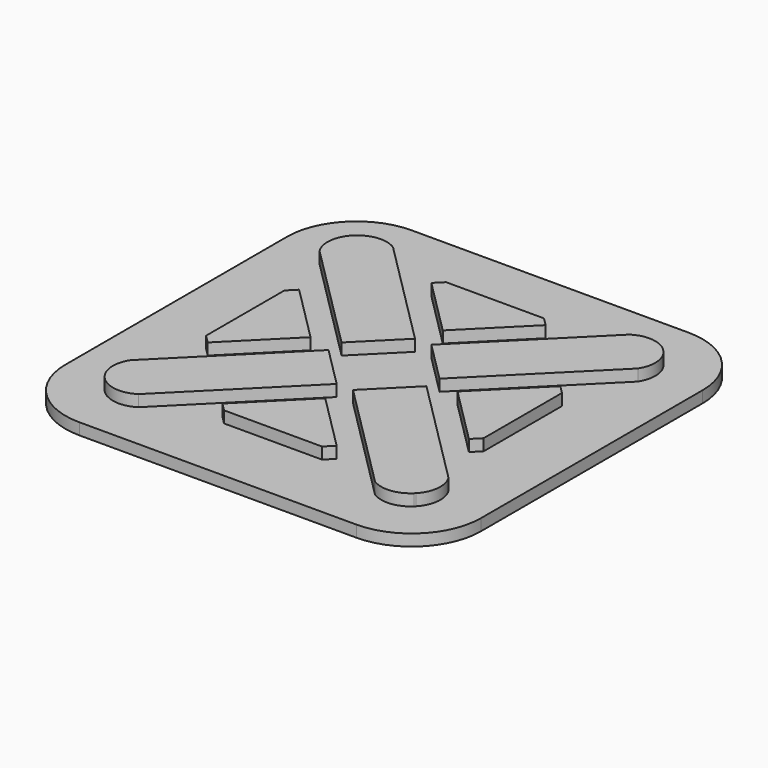
from build123d import *

# Parameters (mm, degrees)
F1_DEPTH = 1
F2_DEPTH = 0.5


with BuildPart() as f1:
    # F0 (on Top) → F1 (new body)
    with BuildSketch(Plane.XY):
        with BuildLine():
            ThreePointArc((-5.1259953704, 6.8937408063), (-6.7168839424, 6.7168624253), (-6.8937623233, 5.1259738533))
            Line((-6.8937623233, 5.1259738533), (-2.1207915503, 0.3530030803))
            Line((-2.1207915503, 0.3530030803), (-0.3530245974, 2.1207700332))
            Line((-0.3530245974, 2.1207700332), (-5.1259953704, 6.8937408063))
        make_face()
    extrude(amount=F1_DEPTH)


with BuildPart() as f1b:
    # F0 (on Top) → F1, piece 2 (new body)
    with BuildSketch(Plane.XY):
        Polygon((-5.6563254563, -2.4754240445), (-3.1814517221, -0.0005503103), (-5.6563254563, 2.4743234238), (-6.0098788468, 2.1207700332), (-6.0098788468, -2.1218706539), align=None)
    extrude(amount=F1_DEPTH)


with BuildPart() as f1c:
    # F0 (on Top) → F1, piece 3 (new body)
    with BuildSketch(Plane.XY):
        Polygon((-2.4743449409, 5.6563039392), (0.0005287932, 3.181430205), (2.4754025274, 5.6563039392), (2.1218491368, 6.0098573298), (-2.1207915503, 6.0098573298), align=None)
    extrude(amount=F1_DEPTH)


with BuildPart() as f1d:
    # F0 (on Top) → F1, piece 4 (new body)
    with BuildSketch(Plane.XY):
        with BuildLine():
            ThreePointArc((6.6447103956, 6.7902969298), (5.9029138526, 7.0919032496), (5.1270529568, 6.8937408063))
            Line((5.1270529568, 6.8937408063), (0.3540821838, 2.1207700332))
            Line((0.3540821838, 2.1207700332), (2.1218491368, 0.3530030803))
            Line((2.1218491368, 0.3530030803), (6.8948199098, 5.1259738533))
            ThreePointArc((6.8948199098, 5.1259738533), (7.0929823531, 5.901834749), (6.7913760334, 6.6436312921))
            Line((6.7913760334, 6.6436312921), (6.6447103956, 6.7902969298))
        make_face()
    extrude(amount=F1_DEPTH)


with BuildPart() as f1e:
    # F0 (on Top) → F1, piece 5 (new body)
    with BuildSketch(Plane.XY):
        Polygon((5.6573830427, 2.4743234238), (3.1825093086, -0.0005503103), (5.6573830427, -2.4754240445), (6.0109364333, -2.1218706539), (6.0109364333, 2.1207700332), align=None)
    extrude(amount=F1_DEPTH)


with BuildPart() as f1f:
    # F0 (on Top) → F1, piece 6 (new body)
    with BuildSketch(Plane.XY):
        with BuildLine():
            ThreePointArc((5.1270529568, -6.8948414269), (5.9396456258, -7.0871866013), (6.6981563067, -6.7379516394))
            Line((6.6981563067, -6.7379516394), (6.7379301223, -6.6981778238))
            ThreePointArc((6.7379301223, -6.6981778238), (7.0871650842, -5.9396671428), (6.8948199098, -5.1270744739))
            Line((6.8948199098, -5.1270744739), (2.1218491368, -0.3541037009))
            Line((2.1218491368, -0.3541037009), (0.3540821838, -2.1218706539))
            Line((0.3540821838, -2.1218706539), (5.1270529568, -6.8948414269))
        make_face()
    extrude(amount=F1_DEPTH)


with BuildPart() as f1g:
    # F0 (on Top) → F1, piece 7 (new body)
    with BuildSketch(Plane.XY):
        Polygon((2.4754025274, -5.6574045598), (0.0005287932, -3.1825308257), (-2.4743449409, -5.6574045598), (-2.1207915503, -6.0109579504), (2.1218491368, -6.0109579504), align=None)
    extrude(amount=F1_DEPTH)


with BuildPart() as f1h:
    # F0 (on Top) → F1, piece 8 (new body)
    with BuildSketch(Plane.XY):
        with BuildLine():
            ThreePointArc((-6.8937623233, -5.1270744739), (-7.0861074977, -5.9396671428), (-6.7368725359, -6.6981778238))
            Line((-6.7368725359, -6.6981778238), (-6.6970987202, -6.7379516394))
            ThreePointArc((-6.6970987202, -6.7379516394), (-5.9385880393, -7.0871866013), (-5.1259953704, -6.8948414269))
            Line((-5.1259953704, -6.8948414269), (-0.3530245974, -2.1218706539))
            Line((-0.3530245974, -2.1218706539), (-2.1207915503, -0.3541037009))
            Line((-2.1207915503, -0.3541037009), (-6.8937623233, -5.1270744739))
        make_face()
    extrude(amount=F1_DEPTH)


with BuildPart() as f2:
    # F0 (on Top) → F2 (new body)
    with BuildSketch(Plane.XY):
        with BuildLine():
            Line((-5.9994712068, -9.0005503103), (6.0005287932, -9.0005503103))
            ThreePointArc((6.0005287932, -9.0005503103), (8.1218491368, -8.1218706539), (9.0005287932, -6.0005503103))
            Line((9.0005287932, -6.0005503103), (9.0005287932, 5.9994496897))
            ThreePointArc((9.0005287932, 5.9994496897), (8.1218491368, 8.1207700332), (6.0005287932, 8.9994496897))
            Line((6.0005287932, 8.9994496897), (-5.9994712068, 8.9994496897))
            ThreePointArc((-5.9994712068, 8.9994496897), (-8.1207915503, 8.1207700332), (-8.9994712068, 5.9994496897))
            Line((-8.9994712068, 5.9994496897), (-8.9994712068, -6.0005503103))
            ThreePointArc((-8.9994712068, -6.0005503103), (-8.1207915503, -8.1218706539), (-5.9994712068, -9.0005503103))
        make_face()
        Polygon((-2.4743449409, -5.6574045598), (0.0005287932, -3.1825308257), (2.4754025274, -5.6574045598), (2.1218491368, -6.0109579504), (-2.1207915503, -6.0109579504), align=None, mode=Mode.SUBTRACT)
        Polygon((-5.6563254563, 2.4743234238), (-3.1814517221, -0.0005503103), (-5.6563254563, -2.4754240445), (-6.0098788468, -2.1218706539), (-6.0098788468, 2.1207700332), align=None, mode=Mode.SUBTRACT)
        with BuildLine():
            ThreePointArc((-6.6970987202, -6.7379516394), (-6.7172039349, -6.7182830385), (-6.7368725359, -6.6981778238))
            ThreePointArc((-6.7368725359, -6.6981778238), (-7.0861074977, -5.9396671428), (-6.8937623233, -5.1270744739))
            Line((-6.8937623233, -5.1270744739), (-2.1207915503, -0.3541037009))
            Line((-2.1207915503, -0.3541037009), (-0.3530245974, -2.1218706539))
            Line((-0.3530245974, -2.1218706539), (-5.1259953704, -6.8948414269))
            ThreePointArc((-5.1259953704, -6.8948414269), (-5.9385880393, -7.0871866013), (-6.6970987202, -6.7379516394))
        make_face(mode=Mode.SUBTRACT)
        with BuildLine():
            ThreePointArc((6.7379301223, -6.6981778238), (6.7182615214, -6.7182830385), (6.6981563067, -6.7379516394))
            ThreePointArc((6.6981563067, -6.7379516394), (5.9396456258, -7.0871866013), (5.1270529568, -6.8948414269))
            Line((5.1270529568, -6.8948414269), (0.3540821838, -2.1218706539))
            Line((0.3540821838, -2.1218706539), (2.1218491368, -0.3541037009))
            Line((2.1218491368, -0.3541037009), (6.8948199098, -5.1270744739))
            ThreePointArc((6.8948199098, -5.1270744739), (7.0871650842, -5.9396671428), (6.7379301223, -6.6981778238))
        make_face(mode=Mode.SUBTRACT)
        with BuildLine():
            Line((-2.1207915503, 0.3530030803), (-6.8937623233, 5.1259738533))
            ThreePointArc((-6.8937623233, 5.1259738533), (-6.7168839424, 6.7168624253), (-5.1259953704, 6.8937408063))
            Line((-5.1259953704, 6.8937408063), (-0.3530245974, 2.1207700332))
            Line((-0.3530245974, 2.1207700332), (-2.1207915503, 0.3530030803))
        make_face(mode=Mode.SUBTRACT)
        Polygon((2.4754025274, 5.6563039392), (0.0005287932, 3.181430205), (-2.4743449409, 5.6563039392), (-2.1207915503, 6.0098573298), (2.1218491368, 6.0098573298), align=None, mode=Mode.SUBTRACT)
        with BuildLine():
            Line((0.3540821838, 2.1207700332), (5.1270529568, 6.8937408063))
            ThreePointArc((5.1270529568, 6.8937408063), (5.9029138526, 7.0919032496), (6.6447103956, 6.7902969298))
            ThreePointArc((6.6447103956, 6.7902969298), (6.7210187077, 6.7199396042), (6.7913760334, 6.6436312921))
            ThreePointArc((6.7913760334, 6.6436312921), (7.0929823531, 5.901834749), (6.8948199098, 5.1259738533))
            Line((6.8948199098, 5.1259738533), (2.1218491368, 0.3530030803))
            Line((2.1218491368, 0.3530030803), (0.3540821838, 2.1207700332))
        make_face(mode=Mode.SUBTRACT)
        Polygon((5.6573830427, -2.4754240445), (3.1825093086, -0.0005503103), (5.6573830427, 2.4743234238), (6.0109364333, 2.1207700332), (6.0109364333, -2.1218706539), align=None, mode=Mode.SUBTRACT)
    extrude(amount=F2_DEPTH)


solid = Compound([f1.part, f1b.part, f1c.part, f1d.part, f1e.part, f1f.part, f1g.part, f1h.part, f2.part])
